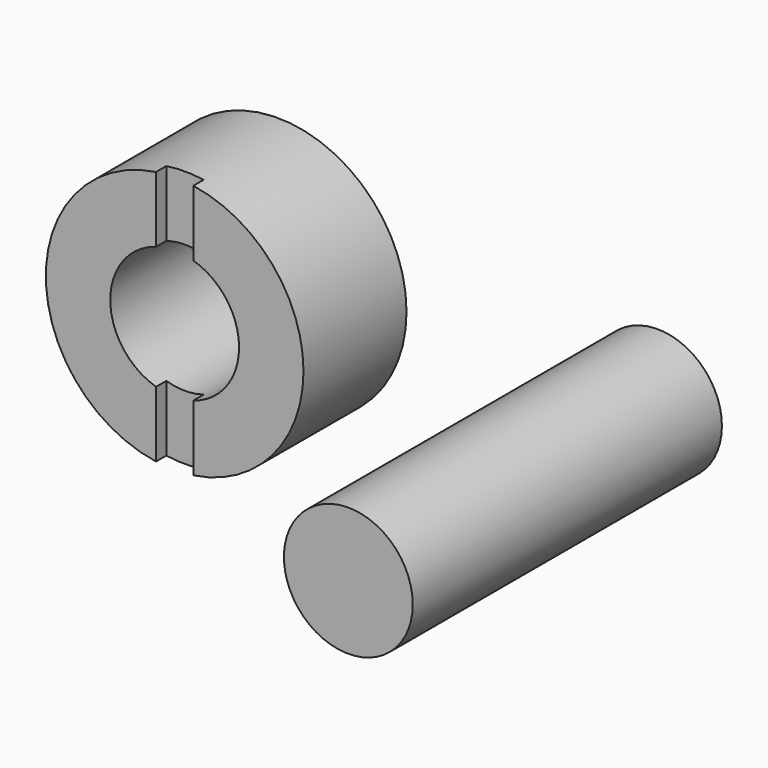
from build123d import *

# Parameters (mm, degrees)
F1_R     = 12.7
F2_DEPTH = 76.2
F0_R     = 25.4
F0_R_2   = 12.7
F3_DEPTH = 25.4
F5_DEPTH = 2.54


with BuildPart() as f2:
    # F1 (on Front) → F2 (new body)
    with BuildSketch(Plane.XZ):
        with Locations((31.9266021252, 31.4428657293)):
            Circle(F1_R)
    extrude(amount=F2_DEPTH)


with BuildPart() as f3:
    # F0 (on Front) → F3 (new body)
    with BuildSketch(Plane.XZ):
        with Locations((-42.9557934403, 31.0558769852)):
            Circle(F0_R)
        with Locations((-42.9557934403, 31.0558769852)):
            Circle(F0_R_2, mode=Mode.SUBTRACT)
    extrude(amount=F3_DEPTH)

    # F4 (on face) → F5 (cut)
    with BuildSketch(Plane.XZ.offset(25.4)):
        with BuildLine():
            ThreePointArc((-39.279397577, 56.1884079651), (-42.9557934403, 56.4558769852), (-46.6321893036, 56.1884079651))
            Line((-46.6321893036, 56.1884079651), (-46.6321893036, 43.2121146209))
            ThreePointArc((-46.6321893036, 43.2121146209), (-42.9557934403, 43.7558769852), (-39.279397577, 43.2121146209))
            Line((-39.279397577, 43.2121146209), (-39.279397577, 56.1884079651))
        make_face()
        with BuildLine():
            Line((-46.6321893036, 18.8996393495), (-46.6321893036, 5.9233460053))
            ThreePointArc((-46.6321893036, 5.9233460053), (-42.9557934403, 5.6558769852), (-39.279397577, 5.9233460053))
            Line((-39.279397577, 5.9233460053), (-39.279397577, 18.8996393495))
            ThreePointArc((-39.279397577, 18.8996393495), (-42.9557934403, 18.3558769852), (-46.6321893036, 18.8996393495))
        make_face()
    extrude(amount=-F5_DEPTH, mode=Mode.SUBTRACT)


solid = Compound([f2.part, f3.part])
